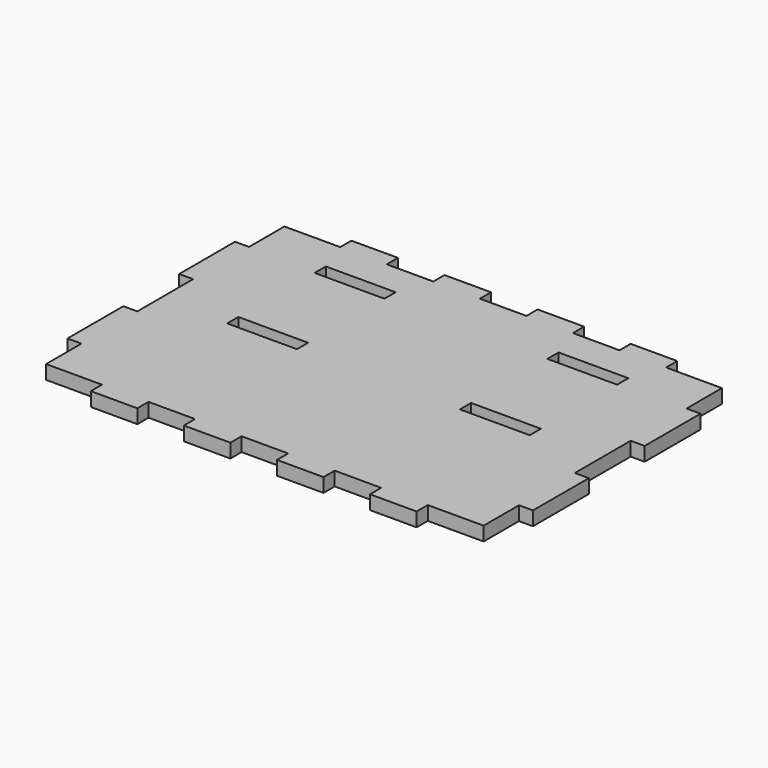
from build123d import *

# Parameters (mm, degrees)
F0_W     = 15
F0_H     = 3
F1_DEPTH = 3


with BuildPart() as f1:
    # F0 (on Top) → F1 (new body)
    with BuildSketch(Plane.XY):
        Polygon((-35, 32), (-47, 32), (-47, 22.5), (-50, 22.5), (-50, 7.5), (-47, 7.5), (-47, -7.5), (-50, -7.5), (-50, -22.5), (-47, -22.5), (-47, -32), (-35, -32), (-35, -35), (-25, -35), (-25, -32), (-15, -32), (-15, -35), (-5, -35), (-5, -32), (5, -32), (5, -35), (15, -35), (15, -32), (25, -32), (25, -35), (35, -35), (35, -32), (47, -32), (47, -22.5), (50, -22.5), (50, -7.5), (47, -7.5), (47, 7.5), (50, 7.5), (50, 22.5), (47, 22.5), (47, 32), (35, 32), (35, 35), (25, 35), (25, 32), (15, 32), (15, 35), (5, 35), (5, 32), (-5, 32), (-5, 35), (-15, 35), (-15, 32), (-25, 32), (-25, 35), (-35, 35), align=None)
        with Locations((-25, 0)):
            Rectangle(F0_W, F0_H, mode=Mode.SUBTRACT)
        with Locations((-25, 23.5)):
            Rectangle(F0_W, F0_H, mode=Mode.SUBTRACT)
        with Locations((25, 0)):
            Rectangle(F0_W, F0_H, mode=Mode.SUBTRACT)
        with Locations((25, 23.5)):
            Rectangle(F0_W, F0_H, mode=Mode.SUBTRACT)
    extrude(amount=F1_DEPTH)


solid = f1.part
